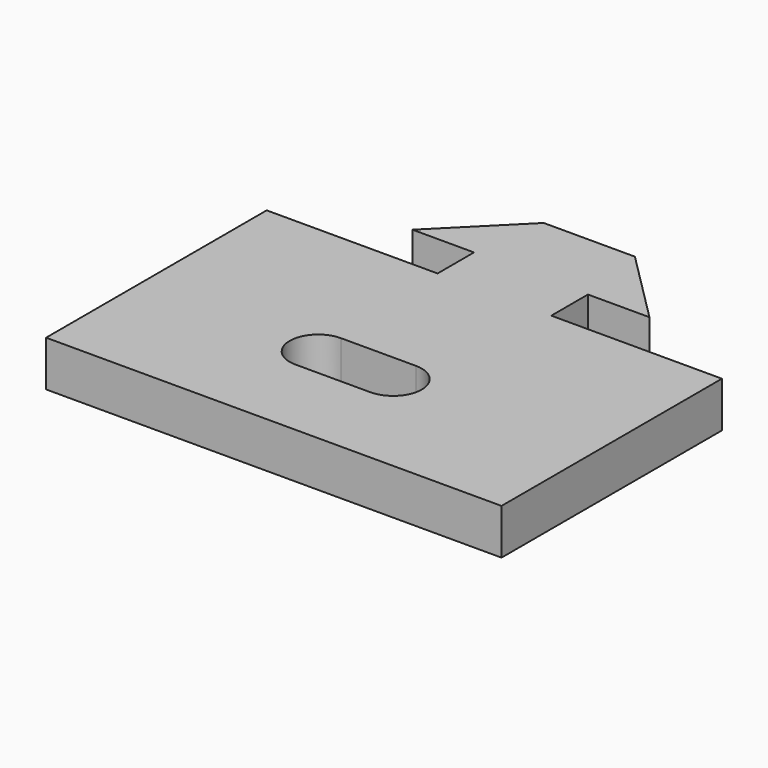
from build123d import *

# Parameters (mm, degrees)
PAD_DEPTH    = 2
POCKET_DEPTH = 5


with BuildPart() as part:
    # Sketch003 → Pad (new body)
    with BuildSketch(Plane.XY.offset(100)):
        Polygon((19.988775, -0.010854), (12.5, -0.010854), (12.5, 2), (15.2, 2), (12, 5.2), (8, 5.2), (4.8, 2), (7.5, 2), (7.5, 0), (0, 0), (0, -12.103219), (19.988775, -12.103219), align=None)
    extrude(amount=PAD_DEPTH)

    # Sketch (on Face13 of Pad) → Pocket (cut)
    with BuildSketch(Plane(origin=(0, 0, 100), x_dir=(1, 0, 0), z_dir=(0, 0, -1))):
        with BuildLine():
            ThreePointArc((7.917523, 8.322382), (6.665478, 7.070337), (7.917523, 5.818292))
            Line((7.917523, 5.818292), (11.208614, 5.818292))
            ThreePointArc((11.208614, 5.818292), (12.460659, 7.070337), (11.208614, 8.322382))
            Line((7.917523, 8.322382), (11.208614, 8.322382))
        make_face()
    extrude(amount=-POCKET_DEPTH, mode=Mode.SUBTRACT)


solid = part.part
